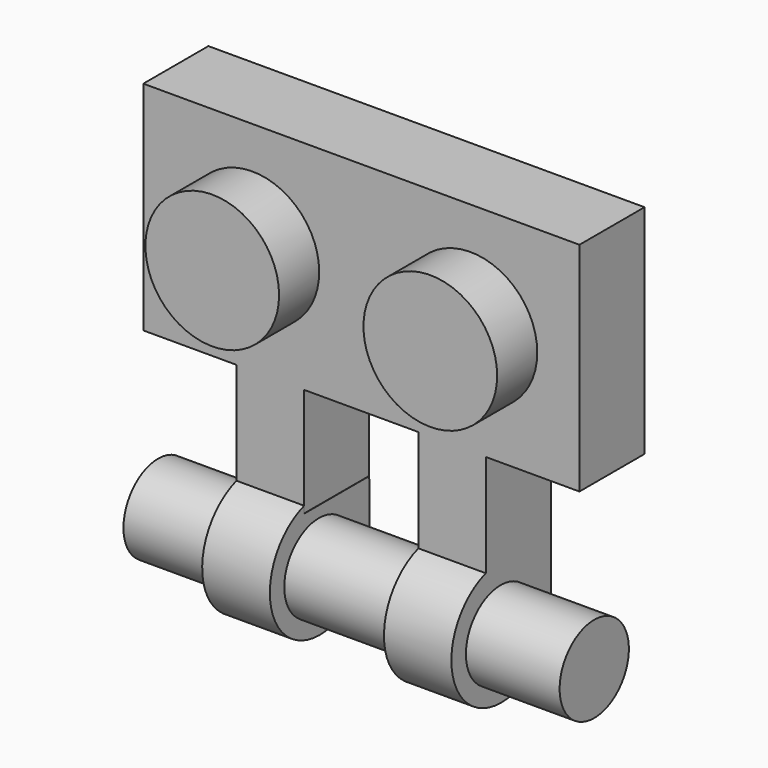
from build123d import *

# Parameters (mm, degrees)
F0_R      = 2.44
F0_W      = 2.46
F0_H      = 3.98
F1_DEPTH  = 2.97
F2_DEPTH  = 4.8
F4_DEPTH  = 2.47
F6_DEPTH  = 2.46
F7_R      = 1.58
F8_DEPTH  = 15.92
F9_W      = 12.82
F9_H      = 4.85
F9_R      = 1.53
F9_R_2    = 0.705
F10_DEPTH = 2.14


with BuildPart() as f1:
    # F0 (on Front) → F1 (new body)
    with BuildSketch(Plane.XZ):
        Polygon((10.665693, 8.13761), (-5.254307, 8.13761), (-5.254307, 0.20761), (-1.853968, 0.20761), (0.606032, 0.20761), (4.786032, 0.20761), (7.246032, 0.20761), (10.665693, 0.20761), align=None)
        with Locations((-1.274307, 4.17261)):
            Circle(F0_R, mode=Mode.SUBTRACT)
        with Locations((6.685693, 4.17261)):
            Circle(F0_R, mode=Mode.SUBTRACT)
        with Locations((-0.623968, -1.78239)):
            Rectangle(F0_W, F0_H)
        with Locations((6.016032, -1.78239)):
            Rectangle(F0_W, F0_H)
    extrude(amount=F1_DEPTH)

    # F0 (on Front) → F2 (join)
    with BuildSketch(Plane.XZ):
        with Locations((-1.274307, 4.17261)):
            Circle(F0_R)
        with Locations((6.685693, 4.17261)):
            Circle(F0_R)
    extrude(amount=F2_DEPTH)

    # F5 (on face) → F6 (join)
    with BuildSketch(Plane.YZ.offset(7.246032)):
        with BuildLine():
            Line((-2.97, -3.77239), (-2.97, -3.529404))
            ThreePointArc((-2.97, -3.529404), (-3.587329, -7.549392), (0.020303, -5.671523))
            Line((0.020303, -5.671523), (0, -3.77239))
            Line((0, -3.77239), (-2.97, -3.77239))
        make_face()
    extrude(amount=-F6_DEPTH)

    # F9 (on face) → F10 (cut)
    with BuildSketch(Plane(origin=(0, 0, 0), x_dir=(-1, 0, 0), z_dir=(0, 1, 0))):
        with Locations((-2.705693, 4.17261)):
            Rectangle(F9_W, F9_H)
        with Locations((-2.705693, 4.17261)):
            Circle(F9_R, mode=Mode.SUBTRACT)
        with Locations((-2.705693, 4.17261)):
            Circle(F9_R_2)
    extrude(amount=-F10_DEPTH, mode=Mode.SUBTRACT)


with BuildPart() as f4:
    # F3 (on face) → F4 (new body)
    with BuildSketch(Plane(origin=(-1.853968, 0, 0), x_dir=(0, -1, 0), z_dir=(-1, 0, 0))):
        with BuildLine():
            Line((0, -3.77239), (-0.025561, -5.649281))
            ThreePointArc((-0.025561, -5.649281), (3.576987, -7.537399), (2.97, -3.515595))
            Line((2.97, -3.515595), (2.97, -3.77239))
            Line((2.97, -3.77239), (0, -3.77239))
        make_face()
    extrude(amount=-F4_DEPTH)


with BuildPart() as f8:
    # F7 (on face) → F8 (new body)
    with BuildSketch(Plane(origin=(-5.254307, 0, 0), x_dir=(0, -1, 0), z_dir=(-1, 0, 0))):
        with Locations((2.295694, -5.765911)):
            Circle(F7_R)
    extrude(amount=-F8_DEPTH)


solid = Compound([f1.part, f4.part, f8.part])
